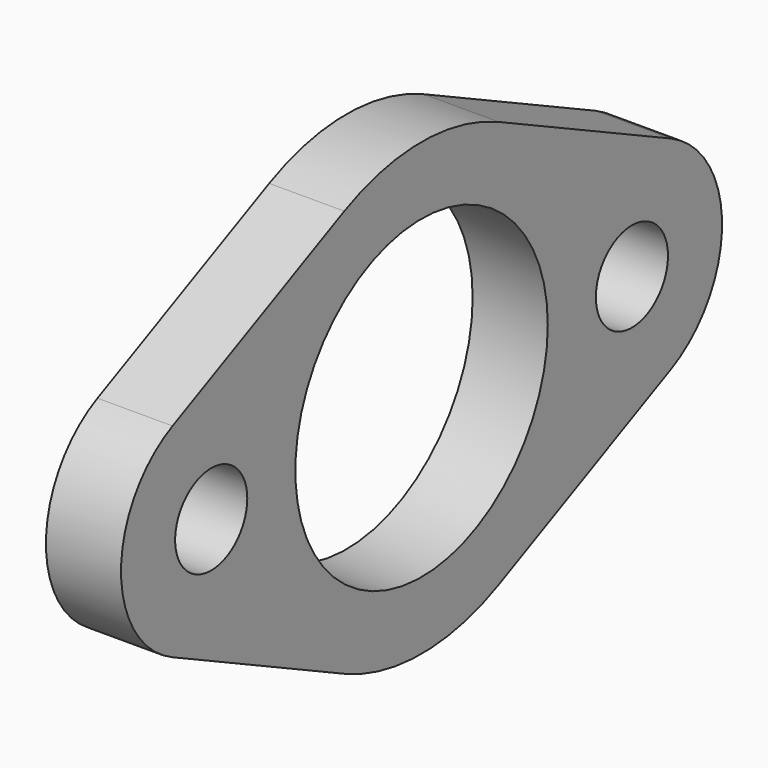
from build123d import *

# Parameters (mm, degrees)
F0_R     = 6
F0_R_2   = 21
F1_DEPTH = 10


with BuildPart() as f1:
    # F0 (on Right) → F1 (new body)
    with BuildSketch(Plane.YZ):
        with BuildLine():
            Line((-41.428571, -13.552619), (-12.857143, -27.105237))
            ThreePointArc((-12.857143, -27.105237), (0, -30), (12.857143, -27.105237))
            Line((12.857143, -27.105237), (41.428571, -13.552619))
            ThreePointArc((41.428571, -13.552619), (50, 0), (41.428571, 13.552619))
            Line((41.428571, 13.552619), (12.857143, 27.105237))
            ThreePointArc((12.857143, 27.105237), (0, 30), (-12.857143, 27.105237))
            Line((-12.857143, 27.105237), (-41.428571, 13.552619))
            ThreePointArc((-41.428571, 13.552619), (-50, 0), (-41.428571, -13.552619))
        make_face()
        with Locations((-35, 0)):
            Circle(F0_R, mode=Mode.SUBTRACT)
        Circle(F0_R_2, mode=Mode.SUBTRACT)
        with Locations((35, 0)):
            Circle(F0_R, mode=Mode.SUBTRACT)
    extrude(amount=F1_DEPTH)


solid = f1.part
